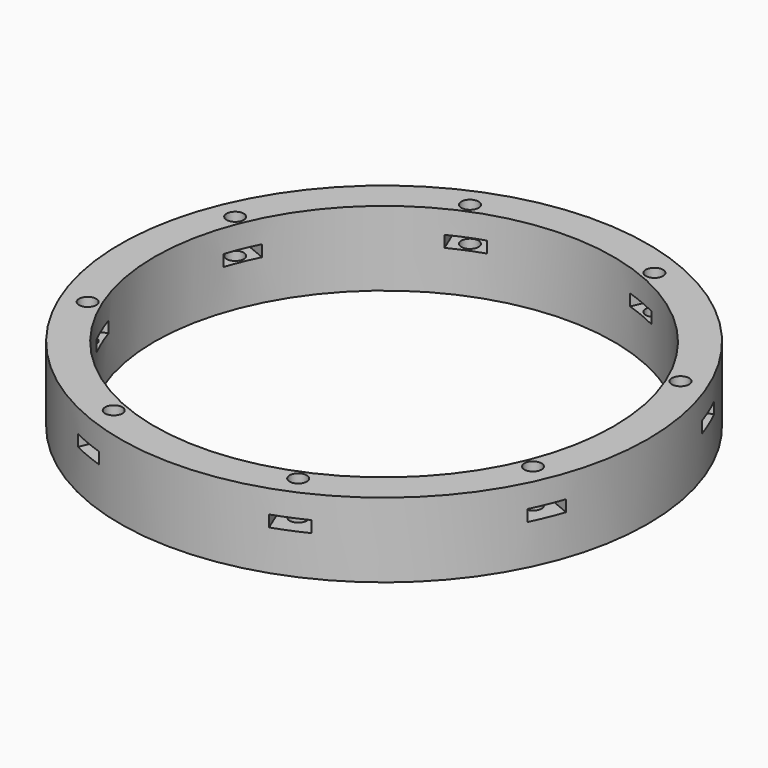
from build123d import *

# Parameters (mm, degrees)
BOX548_W                     = 6
BOX548_H                     = 8
BOX548_DEPTH                 = 2
BOX548_PLACEMENT_ANGLE       = 45
BOX546_W                     = 6
BOX546_H                     = 8
BOX546_DEPTH                 = 2
BOX545_W                     = 6
BOX545_H                     = 8
BOX545_DEPTH                 = 2
BOX549_W                     = 6
BOX549_H                     = 8
BOX549_DEPTH                 = 2
BOX549_PLACEMENT_ANGLE       = 135
BOX550_W                     = 6
BOX550_H                     = 8
BOX550_DEPTH                 = 2
BOX547_W                     = 6
BOX547_H                     = 8
BOX547_DEPTH                 = 2
BOX547_PLACEMENT_ANGLE       = 225
BOX551_W                     = 6
BOX551_H                     = 8
BOX551_DEPTH                 = 2
BOX544_W                     = 6
BOX544_H                     = 8
BOX544_DEPTH                 = 2
BOX544_PLACEMENT_ANGLE       = 45
COMPOUND925_PLACEMENT_ANGLE  = 22.5
CYLINDER1290_R               = 1.5
CYLINDER1290_DEPTH           = 32
CYLINDER1290_PLACEMENT_ANGLE = 45
CYLINDER1293_R               = 1.5
CYLINDER1293_DEPTH           = 32
CYLINDER1291_R               = 1.5
CYLINDER1291_DEPTH           = 32
CYLINDER1291_PLACEMENT_ANGLE = 135
CYLINDER1289_R               = 1.5
CYLINDER1289_DEPTH           = 32
CYLINDER1287_R               = 1.5
CYLINDER1287_DEPTH           = 32
CYLINDER1287_PLACEMENT_ANGLE = 225
CYLINDER1292_R               = 1.5
CYLINDER1292_DEPTH           = 32
CYLINDER1286_R               = 1.5
CYLINDER1286_DEPTH           = 32
CYLINDER1286_PLACEMENT_ANGLE = 45
CYLINDER1288_R               = 1.5
CYLINDER1288_DEPTH           = 32
COMPOUND926_PLACEMENT_ANGLE  = 22.5
TUBE115_R                    = 50
TUBE115_R_2                  = 40
TUBE115_DEPTH                = 12
TUBE113_R                    = 46
TUBE113_R_2                  = 40
TUBE113_DEPTH                = 24


with BuildPart() as krychle548:
    # Box548 → Box548 (new body)
    with BuildSketch(Plane.XY):
        with Locations((3, 4)):
            Rectangle(BOX548_W, BOX548_H)
    extrude(amount=BOX548_DEPTH)


with BuildPart() as krychle548_1:
    # Box548 placement: moved
    add(krychle548.part.moved(Location((30.405592, -34.648232, 33))).rotate(Axis((30.405592, -34.648232, 33), (0, 0, 1)), BOX548_PLACEMENT_ANGLE))


with BuildPart() as krychle546:
    # Box546 → Box546 (new body)
    with BuildSketch(Plane(origin=(46, -3, 33), x_dir=(0, 1, 0), z_dir=(0, 0, 1))):
        with Locations((3, 4)):
            Rectangle(BOX546_W, BOX546_H)
    extrude(amount=BOX546_DEPTH)


with BuildPart() as krychle545:
    # Box545 → Box545 (new body)
    with BuildSketch(Plane(origin=(-3, -46, 33), x_dir=(1, 0, 0), z_dir=(0, 0, 1))):
        with Locations((3, 4)):
            Rectangle(BOX545_W, BOX545_H)
    extrude(amount=BOX545_DEPTH)


with BuildPart() as krychle549:
    # Box549 → Box549 (new body)
    with BuildSketch(Plane.XY):
        with Locations((3, 4)):
            Rectangle(BOX549_W, BOX549_H)
    extrude(amount=BOX549_DEPTH)


with BuildPart() as krychle549_1:
    # Box549 placement: moved
    add(krychle549.part.moved(Location((34.648232, 30.405592, 33))).rotate(Axis((34.648232, 30.405592, 33), (0, 0, 1)), BOX549_PLACEMENT_ANGLE))


with BuildPart() as krychle550:
    # Box550 → Box550 (new body)
    with BuildSketch(Plane(origin=(3, 46, 33), x_dir=(-1, 0, 0), z_dir=(0, 0, 1))):
        with Locations((3, 4)):
            Rectangle(BOX550_W, BOX550_H)
    extrude(amount=BOX550_DEPTH)


with BuildPart() as krychle547:
    # Box547 → Box547 (new body)
    with BuildSketch(Plane.XY):
        with Locations((3, 4)):
            Rectangle(BOX547_W, BOX547_H)
    extrude(amount=BOX547_DEPTH)


with BuildPart() as krychle547_1:
    # Box547 placement: moved
    add(krychle547.part.moved(Location((-30.405592, 34.648232, 33))).rotate(Axis((-30.405592, 34.648232, 33), (0, 0, 1)), BOX547_PLACEMENT_ANGLE))


with BuildPart() as krychle551:
    # Box551 → Box551 (new body)
    with BuildSketch(Plane(origin=(-46, 3, 33), x_dir=(0, -1, 0), z_dir=(0, 0, 1))):
        with Locations((3, 4)):
            Rectangle(BOX551_W, BOX551_H)
    extrude(amount=BOX551_DEPTH)


with BuildPart() as compound925:
    # Box544 → Box544 (new body)
    with BuildSketch(Plane.XY):
        with Locations((3, 4)):
            Rectangle(BOX544_W, BOX544_H)
    extrude(amount=BOX544_DEPTH)


with BuildPart() as compound925_1:
    # Box544 placement: moved
    add(compound925.part.moved(Location((-34.648232, -30.405592, 33))).rotate(Axis((-34.648232, -30.405592, 33), (0, 0, -1)), BOX544_PLACEMENT_ANGLE))

    # Compound925: union Krychle548, Krychle546, Krychle545, Krychle549, Krychle550, Krychle547, Krychle551
    add(krychle548_1.part)
    add(krychle546.part)
    add(krychle545.part)
    add(krychle549_1.part)
    add(krychle550.part)
    add(krychle547_1.part)
    add(krychle551.part)


with BuildPart() as compound925_2:
    # Compound925 placement: moved
    add(compound925_1.part.moved(Location((0, 0, 10))).rotate(Axis((0, 0, 10), (0, 0, 1)), COMPOUND925_PLACEMENT_ANGLE))


with BuildPart() as obj1:
    # Cylinder1290 → Cylinder1290 (new body)
    with BuildSketch(Plane.XY):
        Circle(CYLINDER1290_R)
    extrude(amount=CYLINDER1290_DEPTH)


with BuildPart() as obj1_1:
    # Cylinder1290 placement: moved
    add(obj1.part.moved(Location((29.698485, -29.698485, 33.5))).rotate(Axis((29.698485, -29.698485, 33.5), (0, 0, 1)), CYLINDER1290_PLACEMENT_ANGLE))


with BuildPart() as obj2:
    # Cylinder1293 → Cylinder1293 (new body)
    with BuildSketch(Plane(origin=(42, 0, 33.5), x_dir=(0, 1, 0), z_dir=(0, 0, 1))):
        Circle(CYLINDER1293_R)
    extrude(amount=CYLINDER1293_DEPTH)


with BuildPart() as obj3:
    # Cylinder1291 → Cylinder1291 (new body)
    with BuildSketch(Plane.XY):
        Circle(CYLINDER1291_R)
    extrude(amount=CYLINDER1291_DEPTH)


with BuildPart() as obj3_1:
    # Cylinder1291 placement: moved
    add(obj3.part.moved(Location((29.698485, 29.698485, 33.5))).rotate(Axis((29.698485, 29.698485, 33.5), (0, 0, 1)), CYLINDER1291_PLACEMENT_ANGLE))


with BuildPart() as obj4:
    # Cylinder1289 → Cylinder1289 (new body)
    with BuildSketch(Plane(origin=(0, 42, 33.5), x_dir=(-1, 0, 0), z_dir=(0, 0, 1))):
        Circle(CYLINDER1289_R)
    extrude(amount=CYLINDER1289_DEPTH)


with BuildPart() as obj5:
    # Cylinder1287 → Cylinder1287 (new body)
    with BuildSketch(Plane.XY):
        Circle(CYLINDER1287_R)
    extrude(amount=CYLINDER1287_DEPTH)


with BuildPart() as obj5_1:
    # Cylinder1287 placement: moved
    add(obj5.part.moved(Location((-29.698485, 29.698485, 33.5))).rotate(Axis((-29.698485, 29.698485, 33.5), (0, 0, 1)), CYLINDER1287_PLACEMENT_ANGLE))


with BuildPart() as obj6:
    # Cylinder1292 → Cylinder1292 (new body)
    with BuildSketch(Plane(origin=(-42, 0, 33.5), x_dir=(0, -1, 0), z_dir=(0, 0, 1))):
        Circle(CYLINDER1292_R)
    extrude(amount=CYLINDER1292_DEPTH)


with BuildPart() as obj7:
    # Cylinder1286 → Cylinder1286 (new body)
    with BuildSketch(Plane.XY):
        Circle(CYLINDER1286_R)
    extrude(amount=CYLINDER1286_DEPTH)


with BuildPart() as obj7_1:
    # Cylinder1286 placement: moved
    add(obj7.part.moved(Location((-29.698485, -29.698485, 33.5))).rotate(Axis((-29.698485, -29.698485, 33.5), (0, 0, -1)), CYLINDER1286_PLACEMENT_ANGLE))


with BuildPart() as compound926:
    # Cylinder1288 → Cylinder1288 (new body)
    with BuildSketch(Plane(origin=(0, -42, 33.5), x_dir=(1, 0, 0), z_dir=(0, 0, 1))):
        Circle(CYLINDER1288_R)
    extrude(amount=CYLINDER1288_DEPTH)

    # Compound926: union obj1, obj2, obj3, obj4, obj5, obj6, obj7
    add(obj1_1.part)
    add(obj2.part)
    add(obj3_1.part)
    add(obj4.part)
    add(obj5_1.part)
    add(obj6.part)
    add(obj7_1.part)


with BuildPart() as compound926_1:
    # Compound926 placement: moved
    add(compound926.part.moved(Location((0, 0, 3))).rotate(Axis((0, 0, 3), (0, 0, 1)), COMPOUND926_PLACEMENT_ANGLE))


with BuildPart() as tube115:
    # Tube115 → Tube115 (new body)
    with BuildSketch(Plane.XY.offset(24)):
        Circle(TUBE115_R)
        Circle(TUBE115_R_2, mode=Mode.SUBTRACT)
    extrude(amount=TUBE115_DEPTH)


with BuildPart() as cut476:
    # Tube113 → Tube113 (new body)
    with BuildSketch(Plane.XY.offset(25)):
        Circle(TUBE113_R)
        Circle(TUBE113_R_2, mode=Mode.SUBTRACT)
    extrude(amount=TUBE113_DEPTH)

    # Cut473: cut Tube115
    add(tube115.part, mode=Mode.SUBTRACT)

    # Cut475: cut Compound926
    add(compound926_1.part, mode=Mode.SUBTRACT)

    # Cut476: cut Compound925
    add(compound925_2.part, mode=Mode.SUBTRACT)


solid = cut476.part
